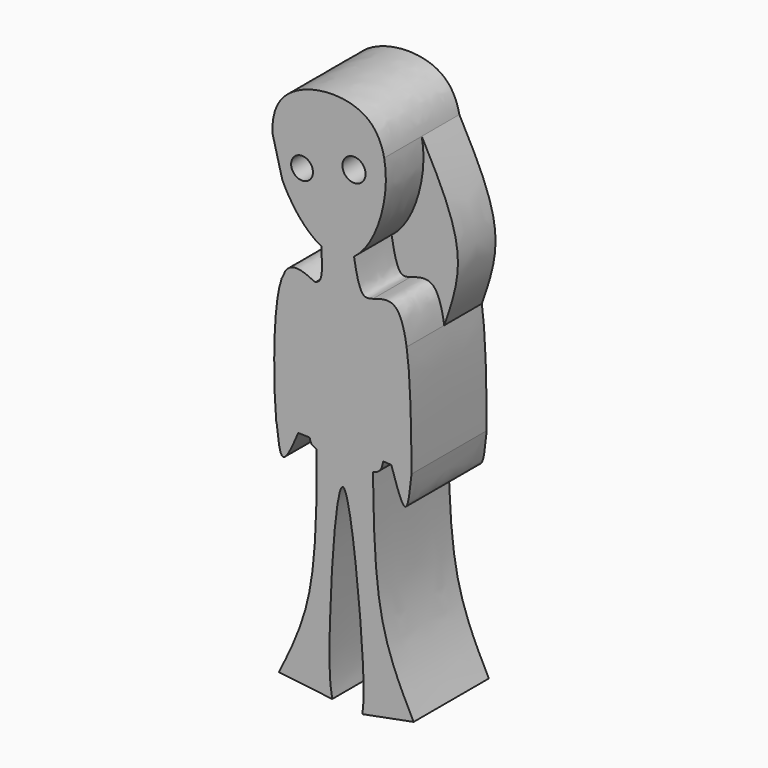
from build123d import *

# Parameters (mm, degrees)
F0_R     = 2.9494351417
F0_R_2   = 3.1269179554
F1_DEPTH = 25.4
F2_DEPTH = 12.7


with BuildPart() as f1:
    # F0 (on Front) → F1 (new body)
    with BuildSketch(Plane.XZ):
        with BuildLine():
            add(Edge.make_bspline(
                [(-4.3607349508, 34.3170873821), (-5.8159647731, 34.266180532), (-7.3260798919, 34.6754060156), (-8.8239335735, 35.4499210748)],
                knots=[0, 0, 0, 0, 0.0558604963, 0.0558604963, 0.0558604963, 0.0558604963], degree=3))
            add(Edge.make_bspline(
                [(0, 35.9002791652), (-1.3646498289, 34.9315221296), (-2.8324242194, 34.3705507485), (-4.3607349508, 34.3170873821)],
                knots=[0.9413342177, 0.9413342177, 0.9413342177, 0.9413342177, 1, 1, 1, 1], degree=3))
            add(Edge.make_bspline(
                [(8.1590511892, 61.9637204051), (9.1888372029, 56.929624723), (7.6915449767, 45.4957659335), (2.7445864281, 37.8486452262), (0, 35.9002791652)],
                knots=[0.6905514826, 0.6905514826, 0.6905514826, 0.6905514826, 0.8233454805, 0.9413342177, 0.9413342177, 0.9413342177, 0.9413342177], degree=3))
            add(Edge.make_bspline(
                [(-22.0211678961, 58.0308431791), (-22.1869263998, 61.722066111), (-19.4617275875, 72.4905198421), (2.6471335613, 74.9151403272), (7.5068546983, 65.1519745619), (8.1590511892, 61.9637204051)],
                knots=[0.2961980111, 0.2961980111, 0.2961980111, 0.2961980111, 0.395080951, 0.6064487872, 0.6905514826, 0.6905514826, 0.6905514826, 0.6905514826], degree=3))
            add(Edge.make_bspline(
                [(-22.0211678961, 58.0308431791), (-21.0930203688, 54.6165518536), (-20.1646660473, 51.2021484936), (-19.3839201593, 47.8835665328)],
                knots=[0, 0, 0, 0, 0.1273376133, 0.1273376133, 0.1273376133, 0.1273376133], degree=3))
            add(Edge.make_bspline(
                [(-8.8239335735, 35.4499210748), (-12.3821829949, 37.2898322723), (-16.3569635, 41.7343103663), (-19.07368946, 47.2040259263), (-19.3839201593, 47.8835665328)],
                knots=[0.0558604963, 0.0558604963, 0.0558604963, 0.0558604963, 0.1885607602, 0.207034532, 0.207034532, 0.207034532, 0.207034532], degree=3))
        make_face()
        with Locations((-14.0301892534, 52.3288138211)):
            Circle(F0_R, mode=Mode.SUBTRACT)
        with Locations((0, 56.499954313)):
            Circle(F0_R_2, mode=Mode.SUBTRACT)
        with BuildLine():
            add(Edge.make_bspline(
                [(0, 35.9002791652), (-1.3646498289, 34.9315221296), (-2.8324242194, 34.3705507485), (-4.3607349508, 34.3170873821)],
                knots=[0.9413342177, 0.9413342177, 0.9413342177, 0.9413342177, 1, 1, 1, 1], degree=3))
            add(Edge.make_bspline(
                [(-4.3607349508, 34.3170873821), (-5.8159647731, 34.266180532), (-7.3260798919, 34.6754060156), (-8.8239335735, 35.4499210748)],
                knots=[0, 0, 0, 0, 0.0558604963, 0.0558604963, 0.0558604963, 0.0558604963], degree=3))
            add(Edge.make_bspline(
                [(-8.8239335735, 35.4499210748), (-8.6194381151, 32.1814535678), (-8.3368843444, 27.3494594149), (-9.9219897476, 26.5952865599), (-10.4278437793, 26.3540036976)],
                knots=[0, 0, 0, 0, 0.6809576007, 1, 1, 1, 1], degree=3))
            add(Edge.make_bspline(
                [(-10.4278437793, 26.3540036976), (-13.5372550637, 27.8193594175), (-16.64666634, 29.2847151335), (-18.5805223781, 26.354003713)],
                knots=[0, 0, 0, 0, 0.2894887536, 0.2894887536, 0.2894887536, 0.2894887536], degree=3))
            add(Edge.make_bspline(
                [(-18.5805223882, 26.3540036976), (-18.8474893981, 25.6657310236), (-19.1628757455, 25.0088850241), (-19.5109327232, 24.378981395)],
                knots=[0.4444669687, 0.4444669687, 0.4444669687, 0.4444669687, 0.4834838181, 0.4834838181, 0.4834838181, 0.4834838181], degree=3))
            add(Edge.make_bspline(
                [(-19.5109327232, 24.378981395), (-21.0643674832, 19.9531113363), (-21.5262468174, 11.8158457348), (-21.5533071763, 4.5179931389)],
                knots=[0.3413897295, 0.3413897295, 0.3413897295, 0.3413897295, 0.6348121446, 0.6348121446, 0.6348121446, 0.6348121446], degree=3))
            add(Edge.make_bspline(
                [(-21.5533071763, 4.5179931389), (-21.577792476, -2.0853970393), (-21.1218013847, -10.2228609905), (-20.9127527805, -10.6817670726), (-20.8556875587, -10.8070373535)],
                knots=[0.6348121446, 0.6348121446, 0.6348121446, 0.6348121446, 0.9003125323, 1, 1, 1, 1], degree=3))
            Line((-20.8556875587, -10.8070373535), (-15.0507342077, -10.9744156837))
            Line((-15.0507342077, -10.9744156837), (-11.9681432843, -11.0632982105))
            add(Edge.make_bspline(
                [(-11.9681432843, -11.0632982105), (-11.7523383257, -12.3312092814), (-11.4293724426, -12.803583638), (-10.0912256166, -13.2083445787)],
                knots=[0.2841176244, 0.2841176244, 0.2841176244, 0.2841176244, 0.3781726374, 0.3781726374, 0.3781726374, 0.3781726374], degree=3))
            add(Edge.make_bspline(
                [(-10.0912256166, -13.2083445787), (-6.999042893, -14.1436640549), (1.5139752093, -14.7179432662), (5.1191220991, -13.7446066365)],
                knots=[0.3781726374, 0.3781726374, 0.3781726374, 0.3781726374, 0.5955144721, 0.5955144721, 0.5955144721, 0.5955144721], degree=3))
            add(Edge.make_bspline(
                [(5.1191220991, -13.7446066365), (7.0668957023, -13.2187364147), (7.5820718333, -12.2411203248), (7.8735407442, -10.2589046583)],
                knots=[0.5955144721, 0.5955144721, 0.5955144721, 0.5955144721, 0.7129390047, 0.7129390047, 0.7129390047, 0.7129390047], degree=3))
            Line((7.8735407442, -10.2589046583), (10.0993986167, -10.4179034599))
            Line((10.0993986167, -10.4179034599), (15.5469663441, -10.8070373535))
            add(Edge.make_bspline(
                [(14.2226914281, 18.9650026151), (15.3554039912, 11.4628427606), (15.4511851676, 0.3279027036), (15.5469663441, -10.8070373535)],
                knots=[0.5401467708, 0.5401467708, 0.5401467708, 0.5401467708, 1, 1, 1, 1], degree=3))
            add(Edge.make_bspline(
                [(5.1191220991, 27.4915862828), (7.3468122477, 28.2109019634), (11.5830450619, 29.5787711404), (13.5918597378, 23.1431148181), (14.2226914281, 18.9650026151)],
                knots=[0, 0, 0, 0, 0.2840447381, 0.5401467708, 0.5401467708, 0.5401467708, 0.5401467708], degree=3))
            add(Edge.make_bspline(
                [(0, 35.9002791652), (0.6659120514, 32.1806234635), (1.6838923464, 26.494382766), (4.2363538824, 27.2353298943), (5.1191220991, 27.4915862828)],
                knots=[0, 0, 0, 0, 0.6541502372, 1, 1, 1, 1], degree=3))
        make_face()
        with BuildLine():
            add(Edge.make_bspline(
                [(5.1191220991, -13.7446066365), (5.3204684593, -26.4078442093), (5.6806533545, -49.0608829649), (12.9222659431, -63.3019604329), (16.1157567054, -69.582156837)],
                knots=[0, 0, 0, 0, 0.5590083392, 1, 1, 1, 1], degree=3))
            add(Edge.make_bspline(
                [(-10.0912256166, -13.2083445787), (-6.999042893, -14.1436640549), (1.5139752093, -14.7179432662), (5.1191220991, -13.7446066365)],
                knots=[0.3781726374, 0.3781726374, 0.3781726374, 0.3781726374, 0.5955144721, 0.5955144721, 0.5955144721, 0.5955144721], degree=3))
            add(Edge.make_bspline(
                [(-10.0912256166, -13.2083445787), (-10.0911388765, -26.0813857287), (-10.0909843429, -49.0156260347), (-17.1778871585, -63.310867055), (-20.2868953347, -69.582156837)],
                knots=[0, 0, 0, 0, 0.5613022702, 1, 1, 1, 1], degree=3))
            Line((-20.2868953347, -69.582156837), (-5.8775120415, -71.2885335088))
            add(Edge.make_bspline(
                [(-5.8775120415, -71.2885335088), (-6.2564772228, -69.1830736559), (-7.386907722, -62.90261268), (-3.6582190501, 8.5281088891), (3.2850759179, -63.0431020915), (2.5337375888, -69.8826869928), (2.2751661018, -72.2365155816)],
                knots=[0, 0, 0, 0, 0.1662763633, 0.4959924596, 0.8265468775, 1, 1, 1, 1], degree=3))
            Line((2.2751661018, -72.2365155816), (16.1157567054, -69.582156837))
        make_face()
        with BuildLine():
            add(Edge.make_bspline(
                [(15.5469663441, -10.8070373535), (15.1276841103, -14.9343334931), (14.2669666052, -23.4069940283), (11.5160993619, -14.8561836208), (10.0993986167, -10.4179034599)],
                knots=[0, 0, 0, 0, 0.4841661128, 0.993913443, 0.993913443, 0.993913443, 0.993913443], degree=3))
            Line((15.5469663441, -10.8070373535), (10.0993986167, -10.4179034599))
        make_face()
        with BuildLine():
            Line((-15.0507342077, -10.9744156837), (-20.8556875587, -10.8070373535))
            add(Edge.make_bspline(
                [(-20.8556875587, -10.8070373535), (-20.4670630449, -14.3410148632), (-19.6726079619, -21.5654340555), (-16.6193671781, -14.5925942328), (-15.0507342077, -10.9744156837)],
                knots=[0, 0, 0, 0, 0.4853486561, 0.9921857557, 0.9921857557, 0.9921857557, 0.9921857557], degree=3))
        make_face()
    extrude(amount=F1_DEPTH)

    # F0 (on Front) → F2 (join)
    with BuildSketch(Plane.XZ):
        with BuildLine():
            add(Edge.make_bspline(
                [(-8.8239335735, 35.4499210748), (-8.6194381151, 32.1814535678), (-8.3368843444, 27.3494594149), (-9.9219897476, 26.5952865599), (-10.4278437793, 26.3540036976)],
                knots=[0, 0, 0, 0, 0.6809576007, 1, 1, 1, 1], degree=3))
            add(Edge.make_bspline(
                [(-8.8239335735, 35.4499210748), (-12.3821829949, 37.2898322723), (-16.3569635, 41.7343103663), (-19.07368946, 47.2040259263), (-19.3839201593, 47.8835665328)],
                knots=[0.0558604963, 0.0558604963, 0.0558604963, 0.0558604963, 0.1885607602, 0.207034532, 0.207034532, 0.207034532, 0.207034532], degree=3))
            add(Edge.make_bspline(
                [(-19.3839201593, 47.8835665328), (-17.4395030004, 39.6187676959), (-16.410611773, 31.9482911058), (-18.5805223882, 26.3540036976)],
                knots=[0.1273376133, 0.1273376133, 0.1273376133, 0.1273376133, 0.4444669687, 0.4444669687, 0.4444669687, 0.4444669687], degree=3))
            add(Edge.make_bspline(
                [(-10.4278437793, 26.3540036976), (-13.5372550637, 27.8193594175), (-16.64666634, 29.2847151335), (-18.5805223781, 26.354003713)],
                knots=[0, 0, 0, 0, 0.2894887536, 0.2894887536, 0.2894887536, 0.2894887536], degree=3))
        make_face()
        with BuildLine():
            add(Edge.make_bspline(
                [(-19.5109327232, 24.378981395), (-21.0643674832, 19.9531113363), (-21.5262468174, 11.8158457348), (-21.5533071763, 4.5179931389)],
                knots=[0.3413897295, 0.3413897295, 0.3413897295, 0.3413897295, 0.6348121446, 0.6348121446, 0.6348121446, 0.6348121446], degree=3))
            add(Edge.make_bspline(
                [(-19.5109327232, 24.378981395), (-21.8348555242, 20.1732119385), (-29.3302897757, 14.2158038787), (-24.1232589853, 7.7328778416), (-21.5533071763, 4.5179931389)],
                knots=[0.4834838181, 0.4834838181, 0.4834838181, 0.4834838181, 0.7439933089, 1, 1, 1, 1], degree=3))
        make_face()
        with BuildLine():
            add(Edge.make_bspline(
                [(8.1590511892, 61.9637204051), (9.1888372029, 56.929624723), (7.6915449767, 45.4957659335), (2.7445864281, 37.8486452262), (0, 35.9002791652)],
                knots=[0.6905514826, 0.6905514826, 0.6905514826, 0.6905514826, 0.8233454805, 0.9413342177, 0.9413342177, 0.9413342177, 0.9413342177], degree=3))
            add(Edge.make_bspline(
                [(0, 35.9002791652), (0.6659120514, 32.1806234635), (1.6838923464, 26.494382766), (4.2363538824, 27.2353298943), (5.1191220991, 27.4915862828)],
                knots=[0, 0, 0, 0, 0.6541502372, 1, 1, 1, 1], degree=3))
            add(Edge.make_bspline(
                [(5.1191220991, 27.4915862828), (7.3468122477, 28.2109019634), (11.5830450619, 29.5787711404), (13.5918597378, 23.1431148181), (14.2226914281, 18.9650026151)],
                knots=[0, 0, 0, 0, 0.2840447381, 0.5401467708, 0.5401467708, 0.5401467708, 0.5401467708], degree=3))
            add(Edge.make_bspline(
                [(8.1590511892, 61.9637204051), (12.6372937315, 53.5646840832), (20.9003420601, 38.0594699763), (16.3294038546, 24.9669144954), (14.2226914281, 18.9650026151)],
                knots=[0, 0, 0, 0, 0.5415898832, 1, 1, 1, 1], degree=3))
        make_face()
    extrude(amount=F2_DEPTH)


solid = f1.part
